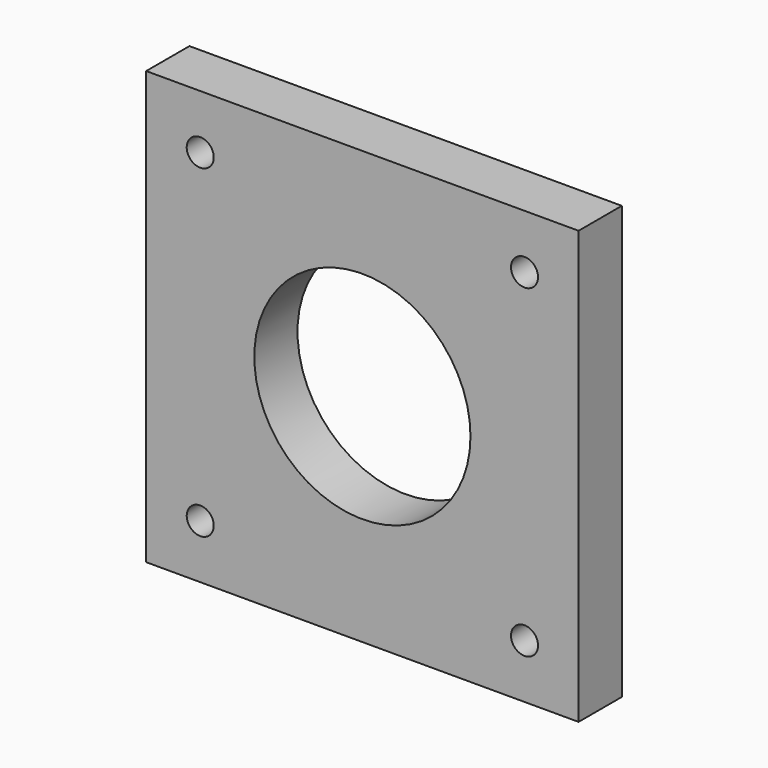
from build123d import *

# Parameters (mm, degrees)
F0_W     = 50.8
F0_H     = 50.8
F0_R     = 1.5875
F0_R_2   = 12.7
F1_DEPTH = 6.35


with BuildPart() as f1:
    # F0 (on Front) → F1 (new body)
    with BuildSketch(Plane.XZ):
        Rectangle(F0_W, F0_H)
        with Locations((-19.05, -19.05)):
            Circle(F0_R, mode=Mode.SUBTRACT)
        Circle(F0_R_2, mode=Mode.SUBTRACT)
        with Locations((19.05, -19.05)):
            Circle(F0_R, mode=Mode.SUBTRACT)
        with Locations((-19.05, 19.05)):
            Circle(F0_R, mode=Mode.SUBTRACT)
        with Locations((19.05, 19.05)):
            Circle(F0_R, mode=Mode.SUBTRACT)
    extrude(amount=F1_DEPTH)


solid = f1.part
